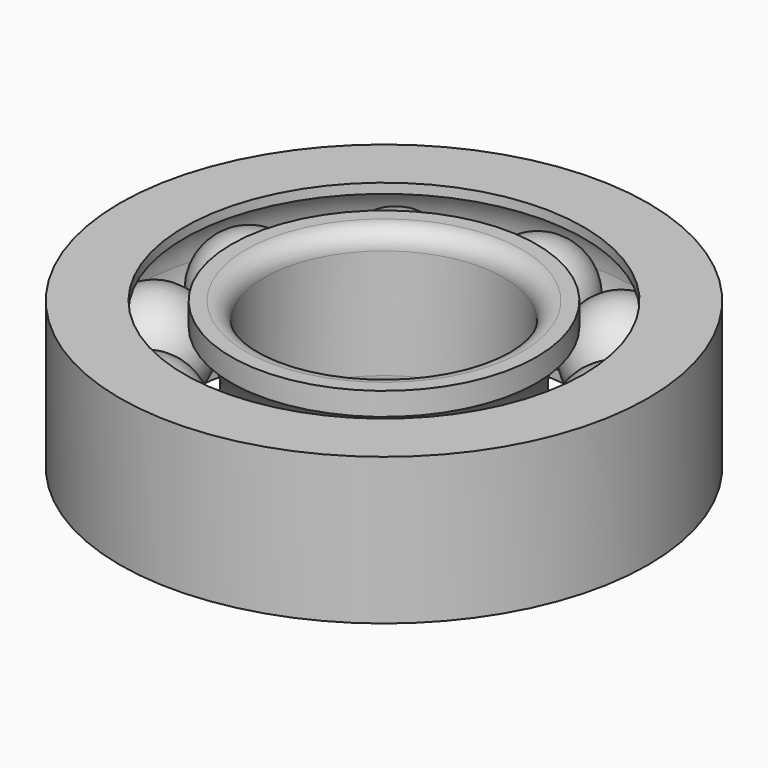
from build123d import *

# Parameters (mm, degrees)
F0_R     = 14.2875
F0_R_2   = 6.477
F1_DEPTH = 7.9375
F2_R     = 10.795
F2_R_2   = 8.255
F3_DEPTH = 7.9375
F4_R     = 3.46075
F8_COUNT = 10
F9_R     = 1


with BuildPart() as f1:
    # F0 (on Top) → F1 (new body)
    with BuildSketch(Plane.XY):
        Circle(F0_R)
        Circle(F0_R_2, mode=Mode.SUBTRACT)
    extrude(amount=F1_DEPTH)

    # F2 (on Top) → F3 (cut, through all)
    with BuildSketch(Plane.XY):
        Circle(F2_R)
        Circle(F2_R_2, mode=Mode.SUBTRACT)
    extrude(amount=F3_DEPTH, mode=Mode.SUBTRACT)

    # F4 (on Right) → F5 (revolve, cut)
    with BuildSketch(Plane.YZ):
        with Locations((10.38225, 3.96875)):
            Circle(F4_R)
    revolve(axis=Axis((0, 0, 3.96875), (0, 0, 1)), mode=Mode.SUBTRACT)

    # F9
    f9_edges = [f1.edges().sort_by_distance(p)[0] for p in [
        (-6.477, 0, 0),
        (-6.477, 0, 7.9375),
    ]]
    fillet(f9_edges, radius=F9_R)


with BuildPart() as f7:
    # F6 (on Right) → F7 (revolve)
    with BuildSketch(Plane.YZ):
        with BuildLine():
            Line((10.38225, 1.247321), (10.38225, 6.690179))
            ThreePointArc((10.38225, 6.690179), (7.660821, 3.96875), (10.38225, 1.247321))
        make_face()
    revolve(axis=Axis((0, 10.38225, 5.953125), (0, 0, 1)))


with BuildPart() as f8_1:
    # F8: instance of F7
    add(f7.part.rotate(Axis((0, 0, 3.96875), (0, 0, 1)), 1 * 360 / F8_COUNT))


with BuildPart() as f8_2:
    # F8: instance of F7
    add(f7.part.rotate(Axis((0, 0, 3.96875), (0, 0, 1)), 2 * 360 / F8_COUNT))


with BuildPart() as f8_3:
    # F8: instance of F7
    add(f7.part.rotate(Axis((0, 0, 3.96875), (0, 0, 1)), 3 * 360 / F8_COUNT))


with BuildPart() as f8_4:
    # F8: instance of F7
    add(f7.part.rotate(Axis((0, 0, 3.96875), (0, 0, 1)), 4 * 360 / F8_COUNT))


with BuildPart() as f8_5:
    # F8: instance of F7
    add(f7.part.rotate(Axis((0, 0, 3.96875), (0, 0, 1)), 5 * 360 / F8_COUNT))


with BuildPart() as f8_6:
    # F8: instance of F7
    add(f7.part.rotate(Axis((0, 0, 3.96875), (0, 0, 1)), 6 * 360 / F8_COUNT))


with BuildPart() as f8_7:
    # F8: instance of F7
    add(f7.part.rotate(Axis((0, 0, 3.96875), (0, 0, 1)), 7 * 360 / F8_COUNT))


with BuildPart() as f8_8:
    # F8: instance of F7
    add(f7.part.rotate(Axis((0, 0, 3.96875), (0, 0, 1)), 8 * 360 / F8_COUNT))


with BuildPart() as f8_9:
    # F8: instance of F7
    add(f7.part.rotate(Axis((0, 0, 3.96875), (0, 0, 1)), 9 * 360 / F8_COUNT))


solid = Compound([f1.part, f7.part, f8_1.part, f8_2.part, f8_3.part, f8_4.part, f8_5.part, f8_6.part, f8_7.part, f8_8.part, f8_9.part])
